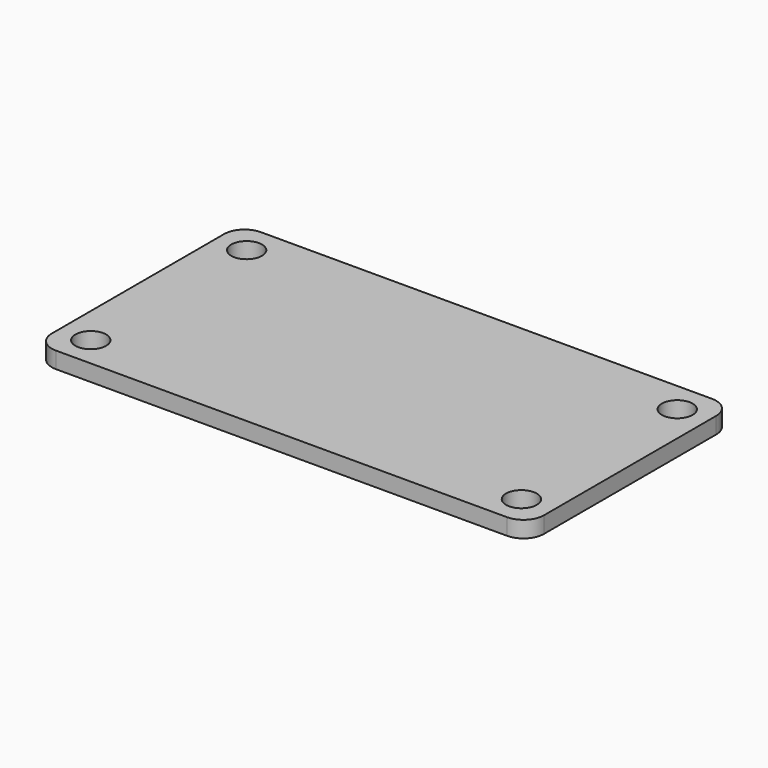
from build123d import *

# Parameters (mm, degrees)
F0_W     = 48
F0_H     = 25
F0_R     = 1.5
F1_DEPTH = 1.6
F2_R     = 2


with BuildPart() as f1:
    # F0 (on Top) → F1 (new body)
    with BuildSketch(Plane.XY):
        with Locations((24, 12.5)):
            Rectangle(F0_W, F0_H)
        with Locations((3, 3)):
            Circle(F0_R, mode=Mode.SUBTRACT)
        with Locations((45, 3)):
            Circle(F0_R, mode=Mode.SUBTRACT)
        with Locations((3, 22)):
            Circle(F0_R, mode=Mode.SUBTRACT)
        with Locations((45, 22)):
            Circle(F0_R, mode=Mode.SUBTRACT)
    extrude(amount=F1_DEPTH)

    # F2
    f2_edges = [f1.edges().sort_by_distance(p)[0] for p in [
        (48, 0, 0.8),
        (48, 25, 0.8),
        (0, 25, 0.8),
        (0, 0, 0.8),
    ]]
    fillet(f2_edges, radius=F2_R)


solid = f1.part
